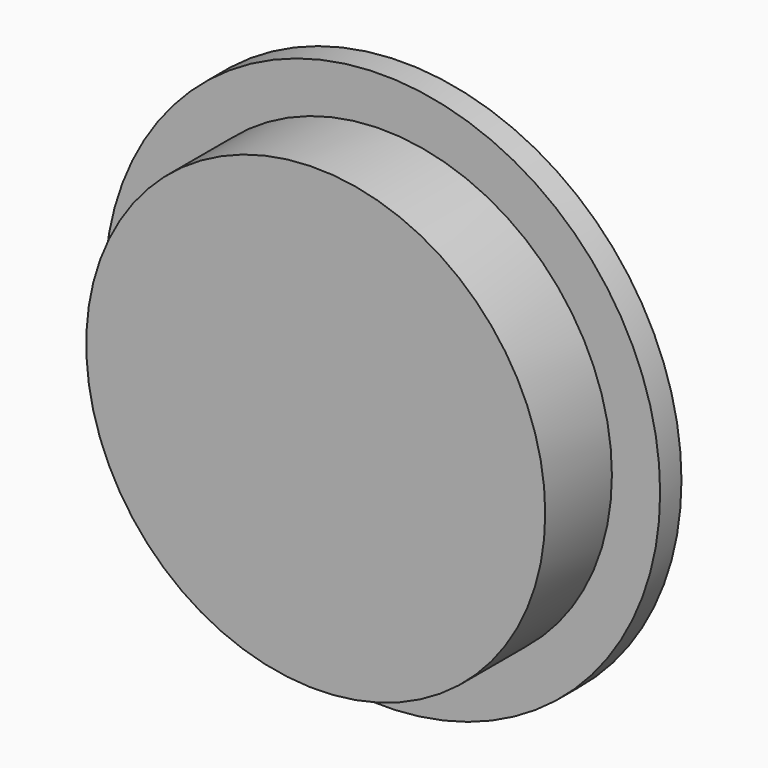
from build123d import *

# Parameters (mm, degrees)
F0_R     = 31.75
F1_DEPTH = 3.048
F2_R     = 26.235323
F3_DEPTH = 9.525
F4_R     = 6.629243
F4_R_2   = 3.175
F5_DEPTH = 12.7


with BuildPart() as f1:
    # F0 (on Front) → F1 (new body)
    with BuildSketch(Plane.XZ):
        Circle(F0_R)
    extrude(amount=F1_DEPTH)

    # F2 (on face) → F3 (join)
    with BuildSketch(Plane.XZ.offset(3.048)):
        Circle(F2_R)
    extrude(amount=F3_DEPTH)

    # F4 (on face) → F5 (join)
    with BuildSketch(Plane(origin=(0, 0, 0), x_dir=(-1, 0, 0), z_dir=(0, 1, 0))):
        with Locations((0, -18.988777)):
            Circle(F4_R)
        with Locations((0, -18.988777)):
            Circle(F4_R_2, mode=Mode.SUBTRACT)
    extrude(amount=F5_DEPTH)


solid = f1.part
